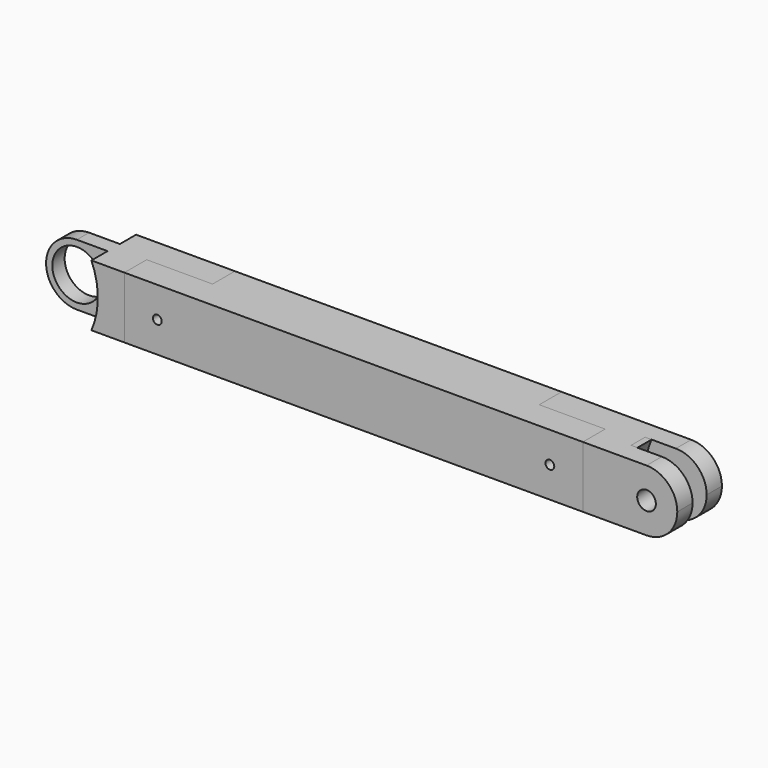
from build123d import *

# Parameters (mm, degrees)
F2_DEPTH  = 28
F3_DEPTH  = 28
F4_DEPTH  = 28
F5_R      = 11.15
F6_DEPTH  = 16.2
F5_R_2    = 4.25
F7_DEPTH  = 25.4
F8_DEPTH  = 16.7
F9_DEPTH  = 9.2
F12_R     = 2
F13_DEPTH = 25.4


with BuildPart() as f2:
    # F1 (on Top) → F2 (new body)
    with BuildSketch(Plane.XY):
        Polygon((-88.35, 12.7), (-133.35, 12.7), (-133.35, 3.5), (-161.35, 3.5), (-161.35, -3.5), (-133.35, -3.5), (-133.35, -12.7), (-118.35, -12.7), (-118.35, 0), (-88.35, 0), align=None)
    extrude(amount=F2_DEPTH)

    # F5 (on face) → F6 (cut, through all)
    with BuildSketch(Plane.XZ.offset(12.7)):
        with Locations((-147.35, 14)):
            Circle(F5_R)
        with BuildLine():
            Line((-161.35, 28), (-161.35, 14))
            ThreePointArc((-161.35, 14), (-157.2494949366, 23.8994949366), (-147.35, 28))
            Line((-147.35, 28), (-161.35, 28))
        make_face()
        with BuildLine():
            Line((-161.35, 14), (-161.35, 0))
            Line((-161.35, 0), (-147.35, 0))
            ThreePointArc((-147.35, 0), (-157.2494949366, 4.1005050634), (-161.35, 14))
        make_face()
    extrude(amount=-F6_DEPTH, mode=Mode.SUBTRACT)

    # F10: F9 across plane


with BuildPart() as f3:
    # F1 (on Top) → F3 (new body, through all)
    with BuildSketch(Plane.XY):
        Polygon((60.35, 12.7), (-88.35, 12.7), (-88.35, 0), (-118.35, 0), (-118.35, -12.7), (90.35, -12.7), (90.35, 0), (60.35, 0), align=None)
    extrude(amount=F3_DEPTH)


with BuildPart() as f4:
    # F1 (on Top) → F4 (new body, through all)
    with BuildSketch(Plane.XY):
        Polygon((133.35, 12.7), (60.35, 12.7), (60.35, 0), (90.35, 0), (90.35, -12.7), (133.35, -12.7), (133.35, -4), (105.35, -4), (105.35, 4), (133.35, 4), align=None)
    extrude(amount=F4_DEPTH)

    # F5 (on face) → F7 (cut, through all)
    with BuildSketch(Plane.XZ.offset(12.7)):
        with Locations((119.35, 14)):
            Circle(F5_R_2)
        with BuildLine():
            Line((133.35, 28), (119.35, 28.0000000002))
            ThreePointArc((119.35, 28.0000000001), (129.2494949366, 23.8994949367), (133.35, 14.0000000001))
            Line((133.35, 14.0000000001), (133.35, 28))
        make_face()
        with BuildLine():
            ThreePointArc((133.35, 14.0000000001), (129.2494949366, 4.1005050634), (119.35, 0))
            Line((119.35, 0), (133.35, 0))
            Line((133.35, 1e-10), (133.35, 14.0000000001))
        make_face()
    extrude(amount=-F7_DEPTH, mode=Mode.SUBTRACT)

    # F5 (on face) → F8 (join, through all)
    with BuildSketch(Plane.XZ.offset(12.7)):
        with BuildLine():
            Line((105.35, 28.0000000004), (105.35, 14.0000000001))
            ThreePointArc((105.35, 14.0000000001), (106.0882790475, 21.1508375293), (108.2719701354, 28.0000000003))
            Line((108.2719701354, 28.0000000003), (105.35, 28.0000000004))
        make_face()
        with BuildLine():
            Line((105.35, 14.0000000001), (105.35, 2e-10))
            Line((105.35, 0), (108.2719701353, 0))
            ThreePointArc((108.2719701353, 0), (106.0882790474, 6.8491624709), (105.35, 14.0000000001))
        make_face()
    extrude(amount=-F8_DEPTH)


with BuildPart() as f9:
    # F5 (on face) → F9 (new body, through all)
    with BuildSketch(Plane.XZ.offset(12.7)):
        with BuildLine():
            Line((-133.35, 28), (-133.35, 0))
            ThreePointArc((-133.35, 0), (-130.4280298647, 14), (-133.35, 28))
        make_face()
    extrude(amount=-F9_DEPTH)


with BuildPart() as f2_1:
    add(f2.part)
    add(f9.part.mirror(Plane.XZ), mode=Mode.SUBTRACT)

    # F11: cut F9
    add(f9.part, mode=Mode.SUBTRACT)


with BuildPart() as f13_tool:
    # F12 (on face) → F13 (new body, through all)
    with BuildSketch(Plane.XZ.offset(12.7)):
        with Locations((-103.35, 14)):
            Circle(F12_R)
        with Locations((75.35, 14.0000000006)):
            Circle(F12_R)
    extrude(amount=-F13_DEPTH)


with BuildPart() as f2_2:
    add(f2_1.part)

    # F13: cut by f13_tool
    add(f13_tool.part, mode=Mode.SUBTRACT)


with BuildPart() as f3_1:
    add(f3.part)

    # F13: cut by f13_tool
    add(f13_tool.part, mode=Mode.SUBTRACT)


with BuildPart() as f4_1:
    add(f4.part)

    # F13: cut by f13_tool
    add(f13_tool.part, mode=Mode.SUBTRACT)


solid = Compound([f2_2.part, f3_1.part, f4_1.part])
